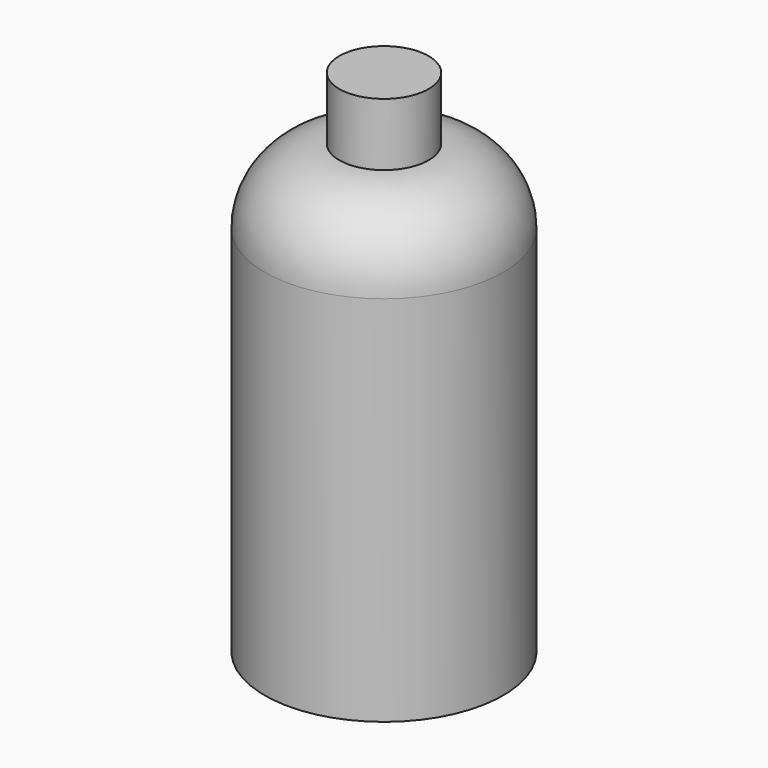
from build123d import *

# Parameters (mm, degrees)
F0_W = 7.62
F0_H = 10.688582


with BuildPart() as f1:
    # F0 (on Front) → F1 (revolve)
    with BuildSketch(Plane.XZ):
        with BuildLine():
            add(Edge.make_bspline(
                [(-20.32, -23.351983), (-11.597349, -23.008756), (-7.848712, -20.862957), (0, -20.811983)],
                knots=[0, 0, 0, 0, 20.478135, 20.478135, 20.478135, 20.478135], degree=3))
            Line((0, -20.811983), (0, 52.848017))
            Line((0, 52.848017), (-7.62, 52.848017))
            ThreePointArc((-7.62, 52.848017), (-16.600256, 49.128273), (-20.32, 40.148017))
            Line((-20.32, 40.148017), (-20.32, -23.351983))
        make_face()
        with Locations((-3.81, 58.192308)):
            Rectangle(F0_W, F0_H)
    revolve(axis=Axis((0, 0, 16.018017), (0, 0, 1)))


solid = f1.part
